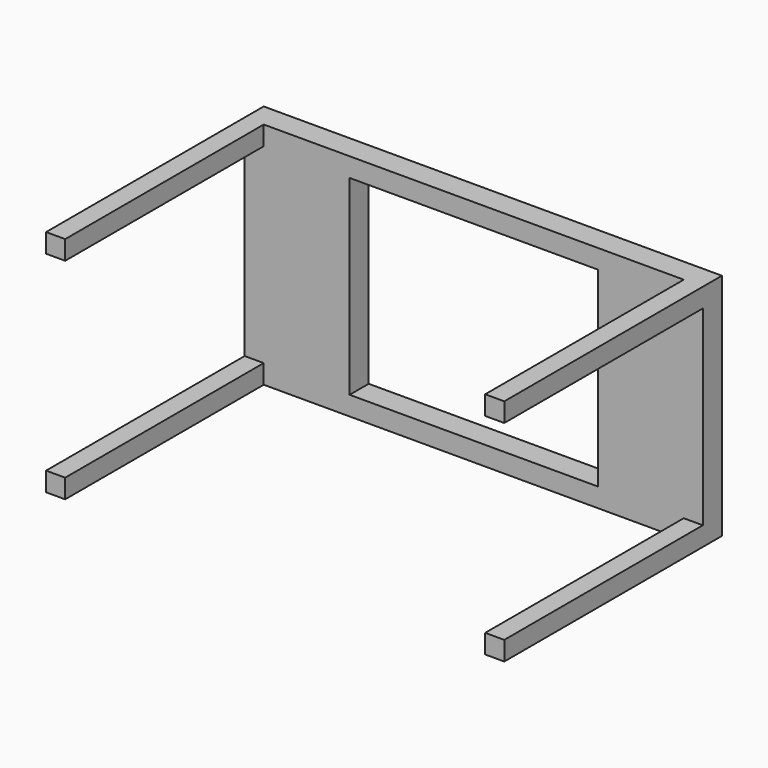
from build123d import *

# Parameters (mm, degrees)
F0_W     = 1219.2
F0_H     = 609.6
F1_DEPTH = 63.5
F2_W     = 660.4
F2_H     = 508
F3_DEPTH = 114.3
F4_W     = 50.8
F4_H     = 50.8
F5_DEPTH = 660.4


with BuildPart() as f1:
    # F0 (on Front) → F1 (new body)
    with BuildSketch(Plane.XZ):
        with Locations((-609.6, 304.8)):
            Rectangle(F0_W, F0_H)
    extrude(amount=F1_DEPTH)

    # F2 (on face) → F3 (cut)
    with BuildSketch(Plane.XZ.offset(63.5)):
        with Locations((-609.6, 304.8)):
            Rectangle(F2_W, F2_H)
    extrude(amount=-F3_DEPTH, mode=Mode.SUBTRACT)

    # F4 (on face) → F5 (join)
    with BuildSketch(Plane.XZ.offset(63.5)):
        with Locations((-1193.8, 584.2)):
            Rectangle(F4_W, F4_H)
        with Locations((-1193.8, 25.4)):
            Rectangle(F4_W, F4_H)
        with Locations((-25.4, 25.4)):
            Rectangle(F4_W, F4_H)
        with Locations((-25.4, 584.2)):
            Rectangle(F4_W, F4_H)
    extrude(amount=F5_DEPTH)


solid = f1.part
